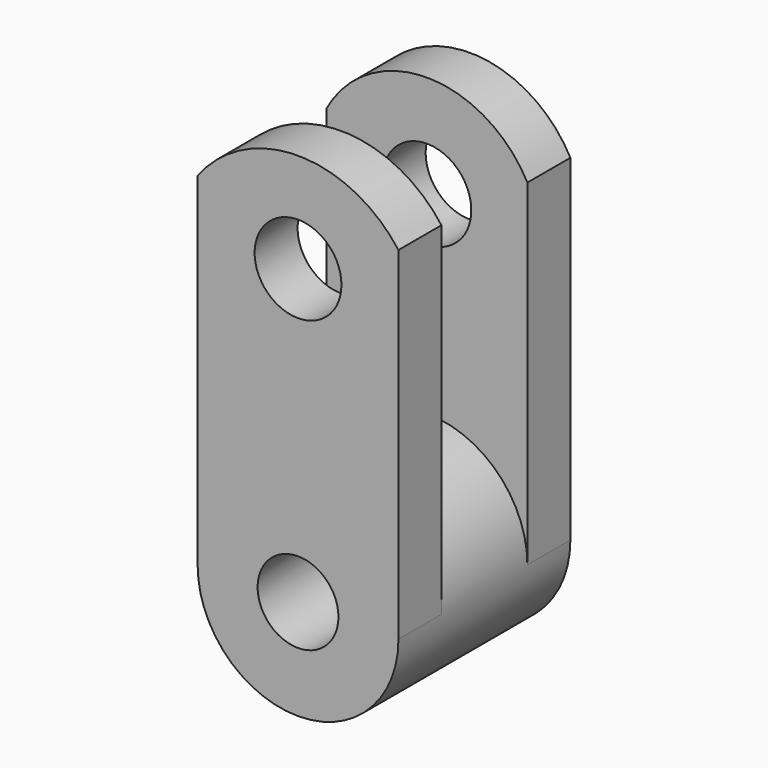
from build123d import *

# Parameters (mm, degrees)
F0_R      = 23.7382132345
F1_DEPTH  = 50.8
F2_R      = 9.5504796537
F3_DEPTH  = 25.4
F4_R      = 8.5638867121
F5_DEPTH  = 25.4
F7_DEPTH  = 12.7
F9_DEPTH  = 12.7
F10_R     = 10.4784811222
F11_DEPTH = 25.4
F12_R     = 10.2578484405
F13_DEPTH = 25.4


with BuildPart() as f1:
    # F0 (on Front) → F1 (new body)
    with BuildSketch(Plane.XZ):
        Circle(F0_R)
    extrude(amount=F1_DEPTH)

    # F2 (on face) → F3 (cut)
    with BuildSketch(Plane.XZ.offset(50.8)):
        Circle(F2_R)
    extrude(amount=-F3_DEPTH, mode=Mode.SUBTRACT)

    # F4 (on face) → F5 (cut)
    with BuildSketch(Plane(origin=(0, 0, 0), x_dir=(-1, 0, 0), z_dir=(0, 1, 0))):
        Circle(F4_R)
    extrude(amount=-F5_DEPTH, mode=Mode.SUBTRACT)

    # F6 (on face) → F7 (join)
    with BuildSketch(Plane.XZ.offset(50.8)):
        with BuildLine():
            Line((-23.7382132345, 80.9877067804), (-23.7382132345, 0))
            ThreePointArc((-23.7382132345, 0), (0, 23.7382132345), (23.7382132345, 0))
            Line((23.7382132345, 0), (23.7382132345, 80.9877067804))
            ThreePointArc((23.7382132345, 80.9877067804), (0, 92.9128323783), (-23.7382132345, 80.9877067804))
        make_face()
    extrude(amount=-F7_DEPTH)

    # F8 (on face) → F9 (join)
    with BuildSketch(Plane(origin=(0, 0, 0), x_dir=(-1, 0, 0), z_dir=(0, 1, 0))):
        with BuildLine():
            Line((-23.7382132345, 79.5382484794), (-23.7382132345, 0))
            ThreePointArc((-23.7382132345, 0), (0, 23.7382132345), (23.7382132345, 0))
            Line((23.7382132345, 0), (23.7382132345, 79.5382484794))
            ThreePointArc((23.7382132345, 79.5382484794), (0, 93.6788109579), (-23.7382132345, 79.5382484794))
        make_face()
    extrude(amount=-F9_DEPTH)

    # F10 (on face) → F11 (cut)
    with BuildSketch(Plane(origin=(0, 0, 0), x_dir=(-1, 0, 0), z_dir=(0, 1, 0))):
        with Locations((0, 69.4402828813)):
            Circle(F10_R)
    extrude(amount=-F11_DEPTH, mode=Mode.SUBTRACT)

    # F12 (on face) → F13 (cut)
    with BuildSketch(Plane.XZ.offset(50.8)):
        with Locations((0, 69.3438276649)):
            Circle(F12_R)
    extrude(amount=-F13_DEPTH, mode=Mode.SUBTRACT)


solid = f1.part
